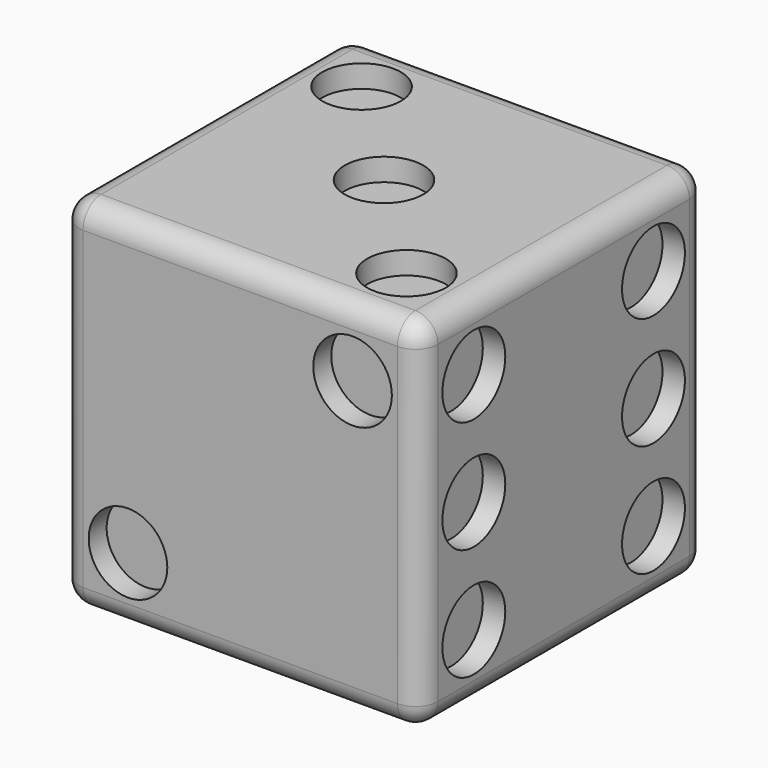
from build123d import *

# Parameters (mm, degrees)
F0_W      = 16
F0_H      = 16
F1_DEPTH  = 8
F2_R      = 1.75
F3_DEPTH  = 1
F4_R      = 1.75
F5_DEPTH  = 1
F6_R      = 1.75
F7_DEPTH  = 1
F8_R      = 1
F9_R      = 1.75
F10_DEPTH = 1
F11_R     = 1.75
F12_DEPTH = 1
F13_R     = 1.75
F14_DEPTH = 1


with BuildPart() as f1:
    # F0 (on Front) → F1 (new body, symmetric)
    with BuildSketch(Plane.XZ):
        Rectangle(F0_W, F0_H)
    extrude(amount=F1_DEPTH, both=True)

    # F2 (on face) → F3 (cut)
    with BuildSketch(Plane.XZ.offset(8)):
        with Locations((5, 5)):
            Circle(F2_R)
        with Locations((-5, -5)):
            Circle(F2_R)
    extrude(amount=-F3_DEPTH, mode=Mode.SUBTRACT)

    # F4 (on face) → F5 (cut)
    with BuildSketch(Plane.YZ.offset(8)):
        with Locations((-5, 5)):
            Circle(F4_R)
        with Locations((-5, 0)):
            Circle(F4_R)
        with Locations((-5, -5)):
            Circle(F4_R)
        with Locations((5, 5)):
            Circle(F4_R)
        with Locations((5, 0)):
            Circle(F4_R)
        with Locations((5, -5)):
            Circle(F4_R)
    extrude(amount=-F5_DEPTH, mode=Mode.SUBTRACT)

    # F6 (on face) → F7 (cut)
    with BuildSketch(Plane.XY.offset(8)):
        with Locations((-5, 5)):
            Circle(F6_R)
        with Locations((5, -5)):
            Circle(F6_R)
        Circle(F6_R)
    extrude(amount=-F7_DEPTH, mode=Mode.SUBTRACT)

    # F8
    f8_edges = [f1.edges().sort_by_distance(p)[0] for p in [
        (0, -8, 8),
        (8, 0, 8),
        (8, -8, 0),
        (8, 8, 0),
        (8, 0, -8),
        (0, 8, 8),
        (-8, 0, 8),
        (-8, 8, 0),
        (0, 8, -8),
        (-8, 0, -8),
        (0, -8, -8),
        (-8, -8, 0),
    ]]
    fillet(f8_edges, radius=F8_R)

    # F9 (on face) → F10 (cut)
    with BuildSketch(Plane(origin=(-8, 0, 0), x_dir=(0, -1, 0), z_dir=(-1, 0, 0))):
        Circle(F9_R)
    extrude(amount=-F10_DEPTH, mode=Mode.SUBTRACT)

    # F11 (on face) → F12 (cut)
    with BuildSketch(Plane(origin=(0, 8, 0), x_dir=(-1, 0, 0), z_dir=(0, 1, 0))):
        with Locations((-5, 5)):
            Circle(F11_R)
        with Locations((-5, -5)):
            Circle(F11_R)
        with Locations((5, 5)):
            Circle(F11_R)
        with Locations((5, -5)):
            Circle(F11_R)
        Circle(F11_R)
    extrude(amount=-F12_DEPTH, mode=Mode.SUBTRACT)

    # F13 (on face) → F14 (cut)
    with BuildSketch(Plane(origin=(0, 0, -8), x_dir=(1, 0, 0), z_dir=(0, 0, -1))):
        with Locations((-5, 5)):
            Circle(F13_R)
        with Locations((5, 5)):
            Circle(F13_R)
        with Locations((5, -5)):
            Circle(F13_R)
        with Locations((-5, -5)):
            Circle(F13_R)
    extrude(amount=-F14_DEPTH, mode=Mode.SUBTRACT)


solid = f1.part
